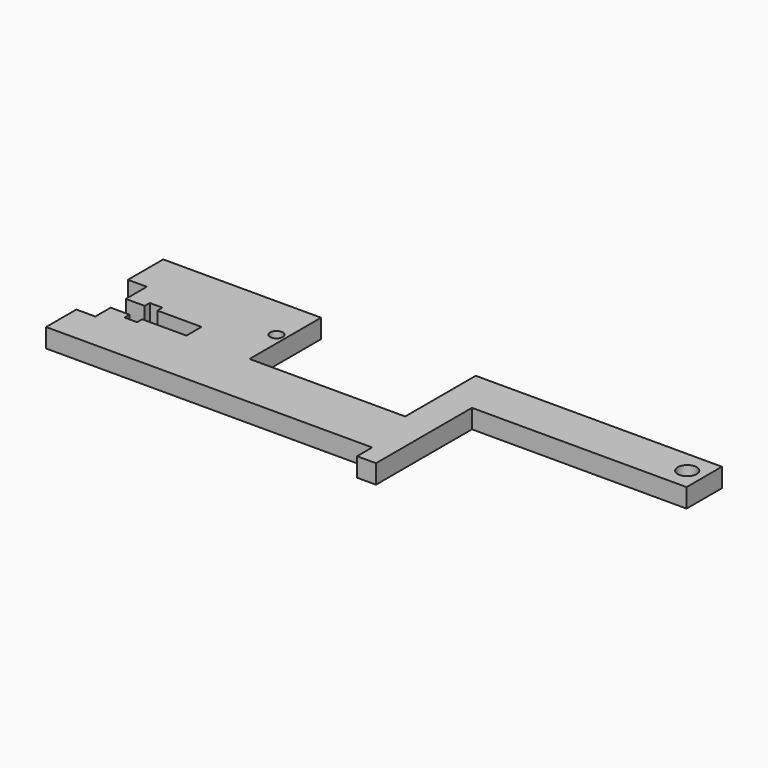
from build123d import *

# Parameters (mm, degrees)
F0_R     = 2.54
F0_R_2   = 3.81
F0_W     = 7.62
F0_H     = 7.62
F1_DEPTH = 7.62


with BuildPart() as f1:
    # F0 (on Top) → F1 (new body)
    with BuildSketch(Plane.XY):
        Polygon((-4.179853, 29.954362), (-16.879853, 29.954362), (-16.879853, 12.174362), (-16.879853, -5.511939), (-79.518082, -5.511939), (-79.518082, 2.108061), (-79.518082, 5.052637), (-79.518082, 30.452637), (-143.018082, 30.452637), (-143.018082, 12.672637), (-135.398082, 12.672637), (-135.398082, 2.108061), (-127.778082, 2.108061), (-127.778082, 4.648061), (-122.698082, 4.648061), (-122.698082, 2.108061), (-104.918082, 2.108061), (-104.918082, -5.511939), (-122.698082, -5.511939), (-122.698082, -8.051939), (-127.778082, -8.051939), (-127.778082, -5.511939), (-135.398082, -5.511939), (-135.398082, -13.225638), (-143.018082, -13.225638), (-143.018082, -28.465638), (-135.398082, -28.465638), (-16.879853, -28.465638), (-11.799853, -28.465638), (-4.179853, -28.465638), (-4.179853, -5.511939), (-4.179853, 12.174362), (82.180147, 12.174362), (82.180147, 29.954362), align=None)
        with Locations((-83.231002, 12.672637)):
            Circle(F0_R, mode=Mode.SUBTRACT)
        with Locations((75.329237, 21.064362)):
            Circle(F0_R_2, mode=Mode.SUBTRACT)
        with Locations((-7.989853, -32.275638)):
            Rectangle(F0_W, F0_H)
    extrude(amount=F1_DEPTH)


solid = f1.part
